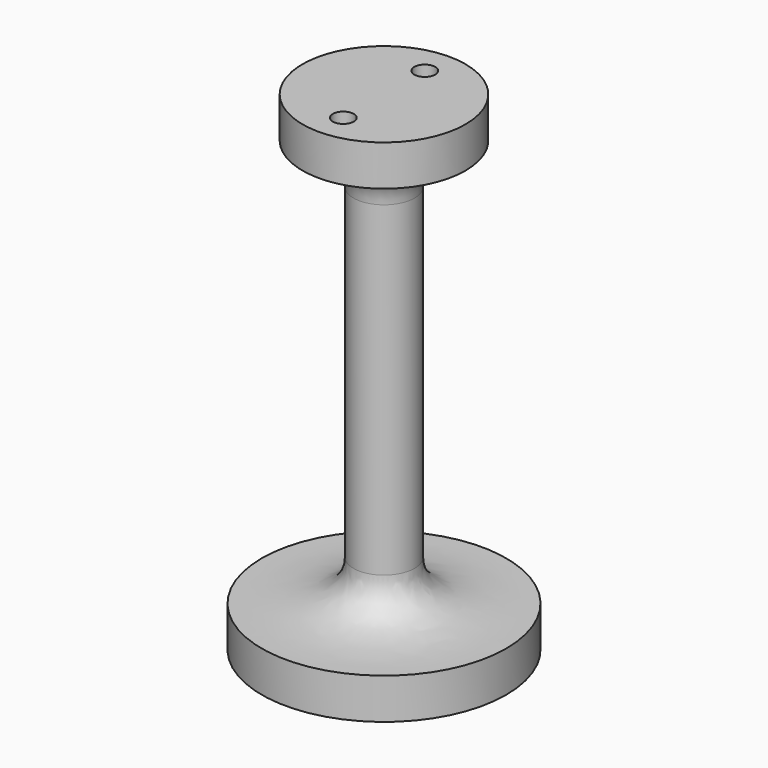
from build123d import *

# Parameters (mm, degrees)
F3_D     = 6.5278
F3_DEPTH = 9.525
F3_TIP   = 1.9611489744
F5_D     = 6.5278
F5_DEPTH = 9.525
F5_TIP   = 1.9611489744


with BuildPart() as f1:
    # F0 (on Front) → F1 (revolve)
    with BuildSketch(Plane.XZ):
        with BuildLine():
            Line((-57.0530471623, 106.8800194085), (-82.4530471623, 106.8800194085))
            Line((-82.4530471623, 106.8800194085), (-82.4530471623, -45.5199805915))
            Line((-82.4530471623, -45.5199805915), (-44.3530471623, -45.5199805915))
            Line((-44.3530471623, -45.5199805915), (-44.3530471623, -32.8199805915))
            add(Edge.make_bspline(
                [(-72.9280471623, -20.1199805915), (-72.9280471623, -32.8199805915), (-55.7276420295, -32.8199805915), (-44.3530471623, -32.8199805915)],
                knots=[0, 0, 0, 0, 31.2701235207, 31.2701235207, 31.2701235207, 31.2701235207], degree=3))
            Line((-72.9280471623, -20.1199805915), (-72.9280471623, 81.4800194085))
            ThreePointArc((-72.9280471623, 81.4800194085), (-69.2083032834, 90.4602755295), (-60.2280471623, 94.1800194085))
            Line((-60.2280471623, 94.1800194085), (-57.0530471623, 94.1800194085))
            Line((-57.0530471623, 94.1800194085), (-57.0530471623, 106.8800194085))
        make_face()
    revolve(axis=Axis((-82.4530471623, 0, 30.6800194085), (0, 0, -1)))

    # F3
    with Locations(Plane.XY.offset(106.8800194085)):
        with Locations((-82.4530471623, 15.875), (-82.4530471623, -15.875)):
            Hole(F3_D / 2, depth=F3_DEPTH)
            with Locations((0, 0, -(F3_DEPTH + F3_TIP / 2))):  # 118° drill point
                Cone(0, F3_D / 2, F3_TIP, mode=Mode.SUBTRACT)

    # F5
    with Locations(Plane(origin=(0, 0, -45.5199805915), x_dir=(1, 0, 0), z_dir=(0, 0, -1))):
        with Locations((-82.4530471623, 19.05), (-82.4530471623, -19.05)):
            Hole(F5_D / 2, depth=F5_DEPTH)
            with Locations((0, 0, -(F5_DEPTH + F5_TIP / 2))):  # 118° drill point
                Cone(0, F5_D / 2, F5_TIP, mode=Mode.SUBTRACT)


solid = f1.part
